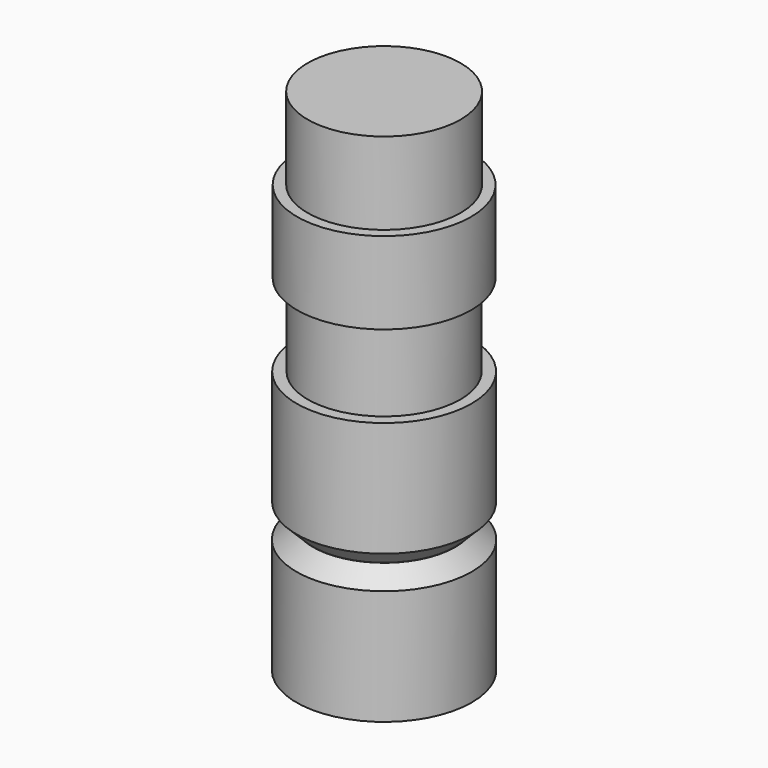
from build123d import *

# Parameters (mm, degrees)
F0_R      = 23.274843
F1_DEPTH  = 25
F2_R      = 26.476855
F3_DEPTH  = 25
F4_R      = 23.196294
F5_DEPTH  = 50
F7_R      = 26.603846
F8_DEPTH  = 40
F9_SIZE   = 5
F11_R     = 26.680042
F12_DEPTH = 40
F13_SIZE  = 5


with BuildPart() as f1:
    # F0 (on Top) → F1 (new body)
    with BuildSketch(Plane.XY):
        Circle(F0_R)
    extrude(amount=F1_DEPTH)

    # F2 (on Top) → F3 (join)
    with BuildSketch(Plane.XY):
        Circle(F2_R)
    extrude(amount=-F3_DEPTH)

    # F4 (on Top) → F5 (join)
    with BuildSketch(Plane.XY):
        Circle(F4_R)
    extrude(amount=-F5_DEPTH)

    # F7 (on offset) → F8 (join)
    with BuildSketch(Plane.XY.offset(-50)):
        Circle(F7_R)
    extrude(amount=-F8_DEPTH)

    # F9
    f9_edges = [f1.edges().sort_by_distance(p)[0] for p in [
        (-26.603846, 0, -90),
    ]]
    chamfer(f9_edges, length=F9_SIZE)

    # F11 (on offset) → F12 (join)
    with BuildSketch(Plane.XY.offset(-90)):
        Circle(F11_R)
    extrude(amount=-F12_DEPTH)

    # F13
    f13_edges = [f1.edges().sort_by_distance(p)[0] for p in [
        (-26.680042, 0, -90),
    ]]
    chamfer(f13_edges, length=F13_SIZE)


solid = f1.part
